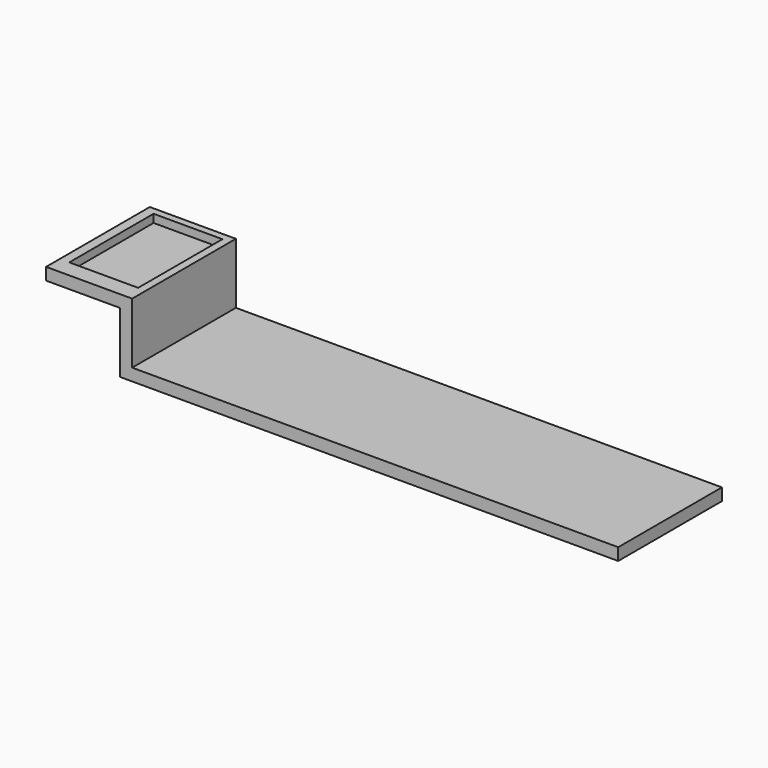
from build123d import *

# Parameters (mm, degrees)
F0_W     = 9372.6
F0_H     = 2438.4
F1_DEPTH = 228.6
F2_W     = 228.6
F2_H     = 2438.4
F3_DEPTH = 1143
F4_W     = 2438.4
F4_H     = 228.6
F5_DEPTH = 1390.65
F6_W     = 1295.4
F6_H     = 1981.2
F7_DEPTH = 152.4


with BuildPart() as f1:
    # F0 (on Top) → F1 (new body)
    with BuildSketch(Plane.XY):
        with Locations((-1094.389941, 1219.2)):
            Rectangle(F0_W, F0_H)
    extrude(amount=F1_DEPTH)

    # F2 (on face) → F3 (join)
    with BuildSketch(Plane.XY.offset(228.6)):
        with Locations((-5666.389941, 1219.2)):
            Rectangle(F2_W, F2_H)
    extrude(amount=F3_DEPTH)

    # F4 (on face) → F5 (join)
    with BuildSketch(Plane(origin=(-5780.689941, 0, 0), x_dir=(0, -1, 0), z_dir=(-1, 0, 0))):
        with Locations((-1219.2, 1257.3)):
            Rectangle(F4_W, F4_H)
    extrude(amount=F5_DEPTH)

    # F6 (on face) → F7 (cut)
    with BuildSketch(Plane.XY.offset(1371.6)):
        with Locations((-6345.839941, 1314.45)):
            Rectangle(F6_W, F6_H)
    extrude(amount=-F7_DEPTH, mode=Mode.SUBTRACT)


solid = f1.part
